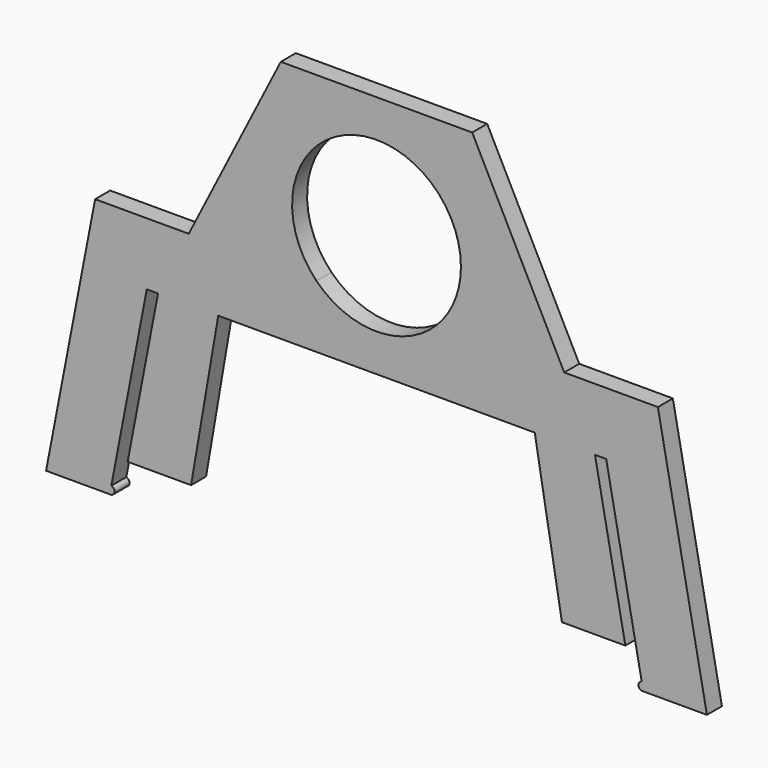
from build123d import *

# Parameters (mm, degrees)
F1_DEPTH = 3


with BuildPart() as f1:
    # F0 (on Front) → F1 (new body)
    with BuildSketch(Plane.XZ):
        with BuildLine():
            Line((39.8014875715, -25.2805444086), (34.9398443952, 0))
            Line((34.9398443952, 0), (36.7398443952, 0))
            Line((36.7398443952, 0), (42.4153624601, -29.5126938112))
            Line((42.4153624601, -29.5126938112), (42.6608640728, -30.7893021921))
            Line((42.6608640728, -30.7893021921), (52.8440966089, -30.7893021921))
            Line((52.8440966089, -30.7893021921), (45, 10))
            Line((45, 10), (30.0267003477, 10))
            Line((30.0267003477, 10), (9.5916630466, 10))
            ThreePointArc((9.5916630466, 10), (0, 6), (-9.5916630466, 10))
            Line((-9.5916630466, 10), (-30.0267003477, 10))
            Line((-30.0267003477, 10), (-45, 10))
            Line((-45, 10), (-52.8440966089, -30.7893021921))
            Line((-52.8440966089, -30.7893021921), (-42.6608640728, -30.7893021921))
            Line((-42.6608640728, -30.7893021921), (-42.4153624601, -29.5126938112))
            Line((-42.4153624601, -29.5126938112), (-36.7398443952, 0))
            Line((-36.7398443952, 0), (-34.9398443952, 0))
            Line((-34.9398443952, 0), (-39.8014875715, -25.2805444086))
            Line((-39.8014875715, -25.2805444086), (-29.6550009954, -25.2805444086))
            Line((-29.6550009954, -25.2805444086), (-25.3120493338, 0))
            Line((-25.3120493338, 0), (0, 0))
            Line((0, 0), (25.3120493338, 0))
            Line((25.3120493338, 0), (29.6550009954, -25.2805444086))
            Line((29.6550009954, -25.2805444086), (39.8014875715, -25.2805444086))
        make_face()
        with BuildLine():
            Line((42.6608640728, -30.7893021921), (42.4153624601, -29.5126938112))
            ThreePointArc((42.4153624601, -29.5126938112), (41.899809076, -30.2737488081), (42.6608640728, -30.7893021921))
        make_face()
        with BuildLine():
            Line((9.5916630466, 10), (30.0267003477, 10))
            Line((30.0267003477, 10), (15.3070772067, 39))
            Line((15.3070772067, 39), (0, 39))
            Line((0, 39), (-15.3070772067, 39))
            Line((-15.3070772067, 39), (-30.0267003477, 10))
            Line((-30.0267003477, 10), (-9.5916630466, 10))
            ThreePointArc((-9.5916630466, 10), (-5.1362704792, 31.9847397075), (13.5, 19.5))
            ThreePointArc((13.5, 19.5), (12.4847397075, 14.3637295208), (9.5916630466, 10))
        make_face()
        with BuildLine():
            ThreePointArc((-42.6608640728, -30.7893021921), (-41.899809076, -30.2737488081), (-42.4153624601, -29.5126938112))
            Line((-42.4153624601, -29.5126938112), (-42.6608640728, -30.7893021921))
        make_face()
    extrude(amount=F1_DEPTH)


solid = f1.part
